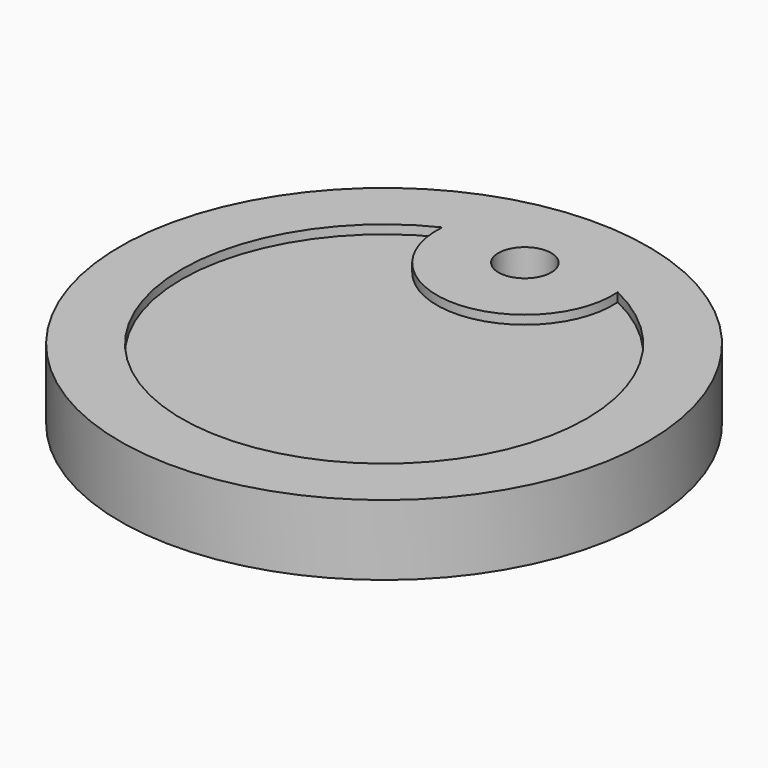
from build123d import *

# Parameters (mm, degrees)
F0_R     = 30
F0_R_2   = 3
F1_DEPTH = 8
F2_T     = -7


with BuildPart() as f1:
    # F0 (on Top) → F1 (new body)
    with BuildSketch(Plane.XY):
        Circle(F0_R)
        with Locations((0, 20)):
            Circle(F0_R_2, mode=Mode.SUBTRACT)
    extrude(amount=F1_DEPTH)

    # F2
    f2_openings = [f1.faces().sort_by_distance(p)[0] for p in [
        (0, -0.20202, 8),
    ]]
    offset(amount=F2_T, openings=f2_openings)


solid = f1.part
